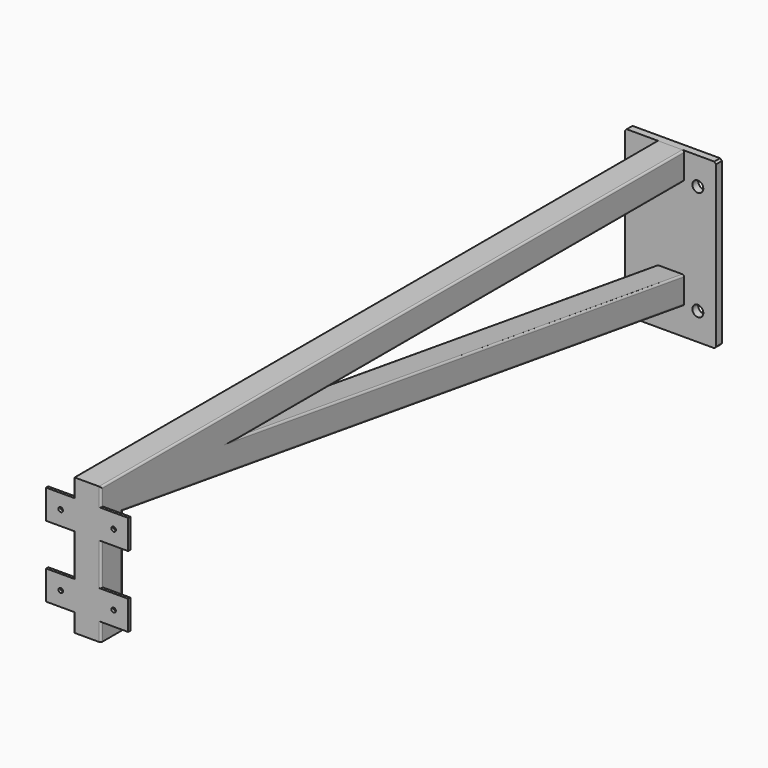
from build123d import *

# Parameters (mm, degrees)
F0_W      = 100
F0_H      = 180
F0_R      = 6
F1_DEPTH  = 8
F2_SIZE   = 2
F4_W      = 24
F4_H      = 24
F8_DEPTH  = 3
F9_W      = 32
F9_H      = 32
F9_R      = 2.5
F10_DEPTH = 3


with BuildPart() as f1:
    # F0 (on Front) → F1 (new body)
    with BuildSketch(Plane.XZ):
        Rectangle(F0_W, F0_H)
        with Locations((-30, -60)):
            Circle(F0_R, mode=Mode.SUBTRACT)
        with Locations((30, -60)):
            Circle(F0_R, mode=Mode.SUBTRACT)
        with Locations((-30, 60)):
            Circle(F0_R, mode=Mode.SUBTRACT)
        with Locations((30, 60)):
            Circle(F0_R, mode=Mode.SUBTRACT)
    extrude(amount=F1_DEPTH)

    # F2
    f2_edges = [f1.edges().sort_by_distance(p)[0] for p in [
        (50, -4, 90),
        (50, -4, -90),
        (-50, -4, -90),
        (-50, -4, 90),
    ]]
    chamfer(f2_edges, length=F2_SIZE)


with BuildPart() as f5:
    # F5: sweep along a path in F3
    with BuildLine(Plane.YZ) as f5_path:
        Line((-8, 90), (-807, 90))
        Line((-807, 90), (-807, -57))
    # F4 (on face) → F5 (sweep)
    with BuildSketch(Plane.XZ.offset(8)):
        with BuildLine():
            Line((13, 90), (-13, 90))
            ThreePointArc((-13, 90), (-14.4142135624, 89.4142135624), (-15, 88))
            Line((-15, 88), (-15, 62))
            ThreePointArc((-15, 62), (-14.4142135624, 60.5857864376), (-13, 60))
            Line((-13, 60), (13, 60))
            ThreePointArc((13, 60), (14.4142135624, 60.5857864376), (15, 62))
            Line((15, 62), (15, 88))
            ThreePointArc((15, 88), (14.4142135624, 89.4142135624), (13, 90))
        make_face()
        with Locations((0, 75)):
            Rectangle(F4_W, F4_H, mode=Mode.SUBTRACT)
    sweep(path=f5_path.line, transition=Transition.RIGHT)

    # F6: sweep along a path in F3
    with BuildLine(Plane.YZ) as f6_path:
        Line((-779, 55), (-8, -60))
    # F4 (on face) → F6 (sweep)
    with BuildSketch(Plane.XZ.offset(8)):
        with BuildLine():
            Line((13, -30), (-13, -30))
            ThreePointArc((-13, -30), (-14.4142135624, -30.5857864376), (-15, -32))
            Line((-15, -32), (-15, -58))
            ThreePointArc((-15, -58), (-14.4142135624, -59.4142135624), (-13, -60))
            Line((-13, -60), (13, -60))
            ThreePointArc((13, -60), (14.4142135624, -59.4142135624), (15, -58))
            Line((15, -58), (15, -32))
            ThreePointArc((15, -32), (14.4142135624, -30.5857864376), (13, -30))
        make_face()
        with Locations((0, -45)):
            Rectangle(F4_W, F4_H, mode=Mode.SUBTRACT)
    sweep(path=f6_path.line)

    # F7 (on face) → F8 (join)
    with BuildSketch(Plane(origin=(0, 0, -57), x_dir=(1, 0, 0), z_dir=(0, 0, -1))):
        with BuildLine():
            ThreePointArc((-13, 807), (-14.4142135624, 806.4142135624), (-15, 805))
            Line((-15, 805), (-15, 779))
            ThreePointArc((-15, 779), (-14.4142135624, 777.5857864376), (-13, 777))
            Line((-13, 777), (13, 777))
            ThreePointArc((13, 777), (14.4142135624, 777.5857864376), (15, 779))
            Line((15, 779), (15, 805))
            ThreePointArc((15, 805), (14.4142135624, 806.4142135624), (13, 807))
            Line((13, 807), (-13, 807))
        make_face()
    extrude(amount=F8_DEPTH)

    # F9 (on face) → F10 (join)
    with BuildSketch(Plane.XZ.offset(807)):
        with Locations((29, 54)):
            Rectangle(F9_W, F9_H)
        with Locations((29, 54)):
            Circle(F9_R, mode=Mode.SUBTRACT)
        with Locations((29, -24)):
            Rectangle(F9_W, F9_H)
        with Locations((29, -24)):
            Circle(F9_R, mode=Mode.SUBTRACT)
        with Locations((-29, 54)):
            Rectangle(F9_W, F9_H)
        with Locations((-29, 54)):
            Circle(F9_R, mode=Mode.SUBTRACT)
        with Locations((-29, -24)):
            Rectangle(F9_W, F9_H)
        with Locations((-29, -24)):
            Circle(F9_R, mode=Mode.SUBTRACT)
    extrude(amount=-F10_DEPTH)


solid = Compound([f1.part, f5.part])
